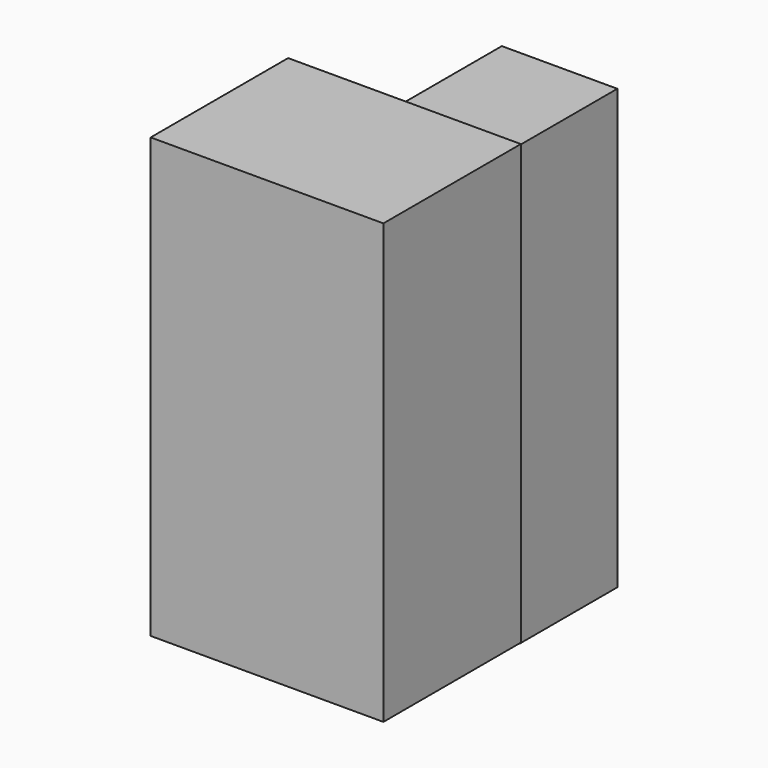
from build123d import *

# Parameters (mm, degrees)
F1_W     = 39.913874
F1_H     = 75.271368
F2_DEPTH = 29.464
F3_W     = 20.868212
F3_H     = 75.271368
F4_DEPTH = 19.812


with BuildPart() as f2:
    # F1 (on face) → F2 (new body)
    with BuildSketch(Plane.XZ):
        Rectangle(F1_W, F1_H)
    extrude(amount=F2_DEPTH)

    # F3 (on Right) → F4 (join)
    with BuildSketch(Plane.YZ):
        with Locations((10.434106, -0.182256)):
            Rectangle(F3_W, F3_H)
    extrude(amount=F4_DEPTH)


solid = f2.part
